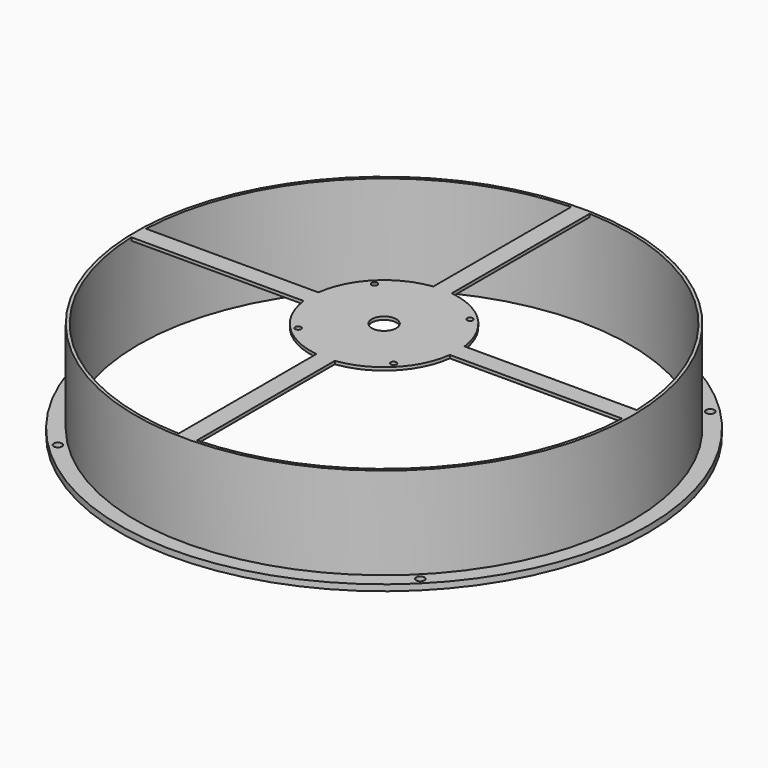
from build123d import *

# Parameters (mm, degrees)
F0_R     = 136.525
F0_R_2   = 2.15265
F0_R_3   = 127
F1_DEPTH = 3.175
F2_R     = 128.5875
F2_R_2   = 127
F3_DEPTH = 47.625
F5_DEPTH = 1.5875
F6_R     = 1.5
F6_R_2   = 6.35
F7_DEPTH = 1.5875


with BuildPart() as f1:
    # F0 (on Top) → F1 (new body)
    with BuildSketch(Plane.XY):
        Circle(F0_R)
        with Locations((-93.7314232637, -93.7314232637)):
            Circle(F0_R_2, mode=Mode.SUBTRACT)
        with Locations((93.7314232637, -93.7314232637)):
            Circle(F0_R_2, mode=Mode.SUBTRACT)
        with Locations((-93.7314232637, 93.7314232637)):
            Circle(F0_R_2, mode=Mode.SUBTRACT)
        Circle(F0_R_3, mode=Mode.SUBTRACT)
        with Locations((93.7314232637, 93.7314232637)):
            Circle(F0_R_2, mode=Mode.SUBTRACT)
    extrude(amount=F1_DEPTH)

    # F2 (on face) → F3 (join)
    with BuildSketch(Plane.XY.offset(3.175)):
        Circle(F2_R)
        Circle(F2_R_2, mode=Mode.SUBTRACT)
    extrude(amount=F3_DEPTH)

    # F4 (on face) → F5 (join)
    with BuildSketch(Plane.XY.offset(50.8)):
        with BuildLine():
            Line((-37.8011718568, 4.7625), (-126.9106717095, 4.7625))
            ThreePointArc((-126.9106717095, 4.7625), (-127, 0), (-126.9106717095, -4.7625))
            Line((-126.9106717095, -4.7625), (-37.8011718568, -4.7625))
            Line((-37.8011718568, -4.7625), (-37.8011718568, 4.7625))
        make_face()
        with BuildLine():
            ThreePointArc((127, 0), (126.9776659636, 2.3816688368), (126.9106717095, 4.7625))
            Line((126.9106717095, 4.7625), (37.8011718568, 4.7625))
            Line((37.8011718568, 4.7625), (37.8011718568, -4.7625))
            Line((37.8011718568, -4.7625), (126.9106717095, -4.7625))
            ThreePointArc((126.9106717095, -4.7625), (126.9776659636, -2.3816688368), (127, 0))
        make_face()
        with BuildLine():
            Line((-4.7625, -37.8011718568), (-4.7625, -126.9106717095))
            ThreePointArc((-4.7625, -126.9106717095), (0, -127), (4.7625, -126.9106717095))
            Line((4.7625, -126.9106717095), (4.7625, -37.8011718568))
            Line((4.7625, -37.8011718568), (-4.7625, -37.8011718568))
        make_face()
        with BuildLine():
            ThreePointArc((4.7625, 126.9106717095), (0, 127), (-4.7625, 126.9106717095))
            Line((-4.7625, 126.9106717095), (-4.7625, 37.8011718568))
            Line((-4.7625, 37.8011718568), (4.7625, 37.8011718568))
            Line((4.7625, 37.8011718568), (4.7625, 126.9106717095))
        make_face()
        with BuildLine():
            ThreePointArc((-4.7625, 37.8011718568), (-26.9407683632, 26.9407683632), (-37.8011718568, 4.7625))
            Line((-37.8011718568, 4.7625), (-37.8011718568, -4.7625))
            ThreePointArc((-37.8011718568, -4.7625), (-26.9407683632, -26.9407683632), (-4.7625, -37.8011718568))
            Line((-4.7625, -37.8011718568), (4.7625, -37.8011718568))
            ThreePointArc((4.7625, -37.8011718568), (26.9407683632, -26.9407683632), (37.8011718568, -4.7625))
            Line((37.8011718568, -4.7625), (37.8011718568, 4.7625))
            ThreePointArc((37.8011718568, 4.7625), (26.9407683632, 26.9407683632), (4.7625, 37.8011718568))
            Line((4.7625, 37.8011718568), (-4.7625, 37.8011718568))
        make_face()
    extrude(amount=-F5_DEPTH)

    # F6 (on face) → F7 (cut, through all)
    with BuildSketch(Plane.XY.offset(50.8)):
        with Locations((24.6957043329, 24.6957043329)):
            Circle(F6_R)
        with Locations((24.6957043329, -24.6957043329)):
            Circle(F6_R)
        with Locations((-24.6957043329, -24.6957043329)):
            Circle(F6_R)
        with Locations((-24.6957043329, 24.6957043329)):
            Circle(F6_R)
        Circle(F6_R_2)
    extrude(amount=-F7_DEPTH, mode=Mode.SUBTRACT)


solid = f1.part
